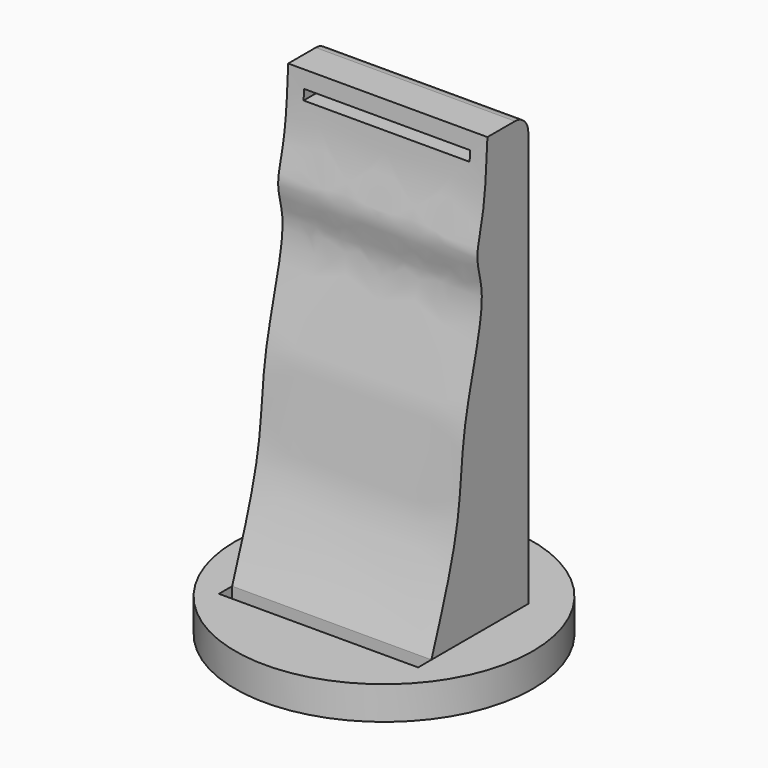
from build123d import *

# Parameters (mm, degrees)
F0_W      = 1828.8
F0_H      = 1828.8
F1_DEPTH  = 3962.4
F3_DEPTH  = 1828.801
F4_R      = 1365.3217697693
F5_DEPTH  = 304.8
F6_W      = 1828.8
F6_H      = 1111.4986732128
F8_DEPTH  = 304.8
F7_R      = 1795.3323418284
F7_W      = 1828.8
F7_H      = 1111.4986732128
F9_DEPTH  = 304.8
F10_R     = 152.4
F11_W     = 1524
F11_H     = 91.44
F12_DEPTH = 2338.3258338011
F13_W     = 1524
F13_H     = 304.8
F14_DEPTH = 91.44
F15_W     = 121.92
F15_H     = 3810
F16_DEPTH = 121.92
F17_R     = 38.1
F18_DEPTH = 3779.52
F20_W     = 1828.8
F20_H     = 152.4
F21_DEPTH = 304.801


with BuildPart() as f1:
    # F0 (on Top) → F1 (new body)
    with BuildSketch(Plane.XY):
        with Locations((-33.5353706032, 421.5680965069)):
            Rectangle(F0_W, F0_H)
    extrude(amount=F1_DEPTH)

    # F2 (on face) → F3 (cut, through all)
    with BuildSketch(Plane.YZ.offset(880.8646293968)):
        with BuildLine():
            add(Edge.make_bspline(
                [(867.1973347664, 3962.4), (855.9222409024, 3741.4983659509), (836.4214056516, 3359.4382262864), (710.3423939879, 3019.3477369058), (879.6941403278, 2674.362829819), (557.9713275543, 1745.5594696148), (573.8038971935, 976.099202154), (345.5407326385, 338.2933084374), (224.4694232941, 0)],
                knots=[0, 0, 0, 0, 0.1631985806, 0.2822598381, 0.4032777866, 0.6038791368, 0.7898968135, 1, 1, 1, 1], degree=3))
            Line((867.1973347664, 3962.4), (-492.8319034931, 3962.4))
            Line((-492.8319034931, 3962.4), (-492.8319034931, 0))
            Line((-492.8319034931, 0), (224.4694232941, 0))
        make_face()
    extrude(amount=-F3_DEPTH, mode=Mode.SUBTRACT)

    # F10
    f10_edges = [f1.edges().sort_by_distance(p)[0] for p in [
        (-33.535371, 1335.968097, 3962.4),
    ]]
    fillet(f10_edges, radius=F10_R)

    # F11 (on face) → F12 (cut, through all)
    with BuildSketch(Plane(origin=(0, 1335.9680965069, 0), x_dir=(-1, 0, 0), z_dir=(0, 1, 0))):
        with Locations((33.5353706032, 3764.28)):
            Rectangle(F11_W, F11_H)
    extrude(amount=-F12_DEPTH, mode=Mode.SUBTRACT)

    # F13 (on face) → F14 (join)
    with BuildSketch(Plane.XY.offset(3718.56)):
        with Locations((-33.5353706032, 1183.5680965069)):
            Rectangle(F13_W, F13_H)
    extrude(amount=F14_DEPTH)

    # F15 (on face) → F16 (cut)
    with BuildSketch(Plane(origin=(0, 1335.9680965069, 0), x_dir=(-1, 0, 0), z_dir=(0, 1, 0))):
        with Locations((33.5353706032, 1905)):
            Rectangle(F15_W, F15_H)
    extrude(amount=-F16_DEPTH, mode=Mode.SUBTRACT)

    # F17 (on face) → F18 (join)
    with BuildSketch(Plane(origin=(0, 0, 3810), x_dir=(1, 0, 0), z_dir=(0, 0, -1))):
        with Locations((-33.5353706032, -1275.0080965069)):
            Circle(F17_R)
    extrude(amount=F18_DEPTH)


with BuildPart() as f5:
    # F4 (on face) → F5 (new body)
    with BuildSketch(Plane(origin=(0, 0, 0), x_dir=(1, 0, 0), z_dir=(0, 0, -1))):
        with Locations((0, -781.4575433731)):
            Circle(F4_R)
        Polygon((-947.9353706032, -224.4694232941), (880.8646293968, -224.4694232941), (880.8646293968, -780.2187599005), (880.8646293968, -1335.9680965069), (-947.9353706032, -1335.9680965069), align=None, mode=Mode.SUBTRACT)
    extrude(amount=F5_DEPTH)

    # F20 (on face) → F21 (cut, through all)
    with BuildSketch(Plane.XY):
        with Locations((-33.5353706032, 148.2694232941)):
            Rectangle(F20_W, F20_H)
    extrude(amount=-F21_DEPTH, mode=Mode.SUBTRACT)


with BuildPart() as f8:
    # F6 (on face) → F8 (new body)
    with BuildSketch(Plane(origin=(0, 0, -304.8), x_dir=(1, 0, 0), z_dir=(0, 0, -1))):
        with Locations((-33.5353706032, -780.2187599005)):
            Rectangle(F6_W, F6_H)
    extrude(amount=-F8_DEPTH)


with BuildPart() as f9:
    # F7 (on face) → F9 (new body)
    with BuildSketch(Plane(origin=(0, 0, -304.8), x_dir=(1, 0, 0), z_dir=(0, 0, -1))):
        with Locations((0, -792.9756045341)):
            Circle(F7_R)
        with Locations((-33.5353706032, -780.2187599005)):
            Rectangle(F7_W, F7_H, mode=Mode.SUBTRACT)
    extrude(amount=F9_DEPTH)


solid = Compound([f1.part, f5.part, f8.part])
